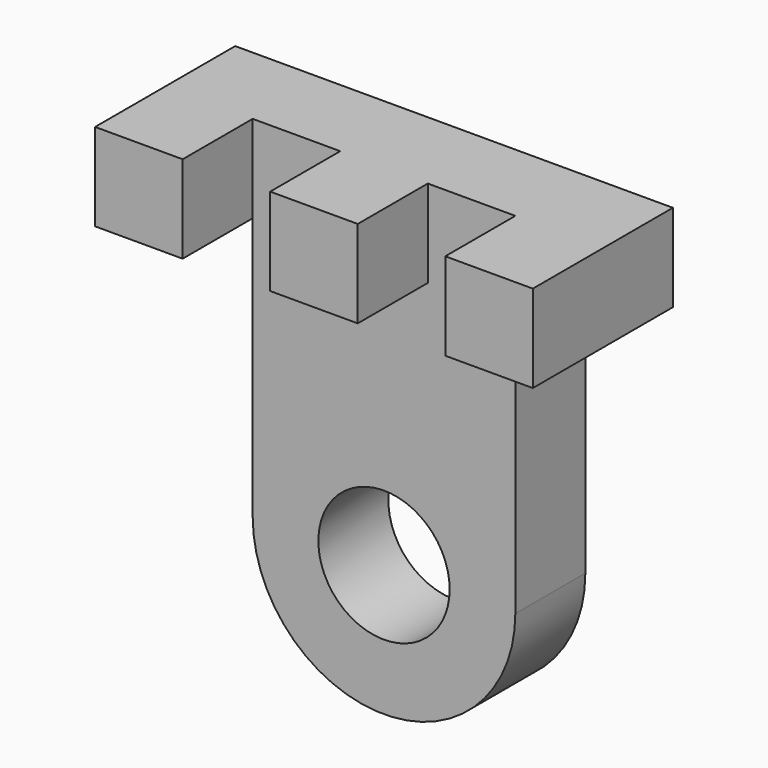
from build123d import *

# Parameters (mm, degrees)
F0_W     = 1
F0_H     = 1
F1_DEPTH = 2
F2_DEPTH = 1


with BuildPart() as f1:
    # F0 (on Front) → F1 (new body)
    with BuildSketch(Plane.XZ):
        with Locations((-2, 3.5)):
            Rectangle(F0_W, F0_H)
    extrude(amount=F1_DEPTH)



with BuildPart() as f1b:
    # F0 (on Front) → F1, piece 2 (new body)
    with BuildSketch(Plane.XZ):
        with Locations((0, 3.5)):
            Rectangle(F0_W, F0_H)
    extrude(amount=F1_DEPTH)


with BuildPart() as f1c:
    # F0 (on Front) → F1, piece 3 (new body)
    with BuildSketch(Plane.XZ):
        with Locations((2, 3.5)):
            Rectangle(F0_W, F0_H)
    extrude(amount=F1_DEPTH)


with BuildPart() as f1_1:
    add(f1.part)

    add(f1b.part)  # F2 merges F1b

    add(f1c.part)  # F2 merges F1c
    # F0 (on Front) → F2 (join)
    with BuildSketch(Plane.XZ):
        with Locations((-1, 3.5)):
            Rectangle(F0_W, F0_H)
        with Locations((1, 3.5)):
            Rectangle(F0_W, F0_H)
        with BuildLine():
            ThreePointArc((-1.5, 0), (0, 1.5), (1.5, 0))
            Line((1.5, 0), (1.5, 3))
            Line((1.5, 3), (0.5, 3))
            Line((0.5, 3), (-0.5, 3))
            Line((-0.5, 3), (-1.5, 3))
            Line((-1.5, 3), (-1.5, 0))
        make_face()
        with BuildLine():
            Line((1.5, 0), (0.75, 0))
            ThreePointArc((0.75, 0), (0, -0.75), (-0.75, 0))
            Line((-0.75, 0), (-1.5, 0))
            ThreePointArc((-1.5, 0), (0, -1.5), (1.5, 0))
        make_face()
        with BuildLine():
            ThreePointArc((-0.75, 0), (0, 0.75), (0.75, 0))
            Line((0.75, 0), (1.5, 0))
            ThreePointArc((1.5, 0), (0, 1.5), (-1.5, 0))
            Line((-1.5, 0), (-0.75, 0))
        make_face()
    extrude(amount=F2_DEPTH)


solid = f1_1.part
